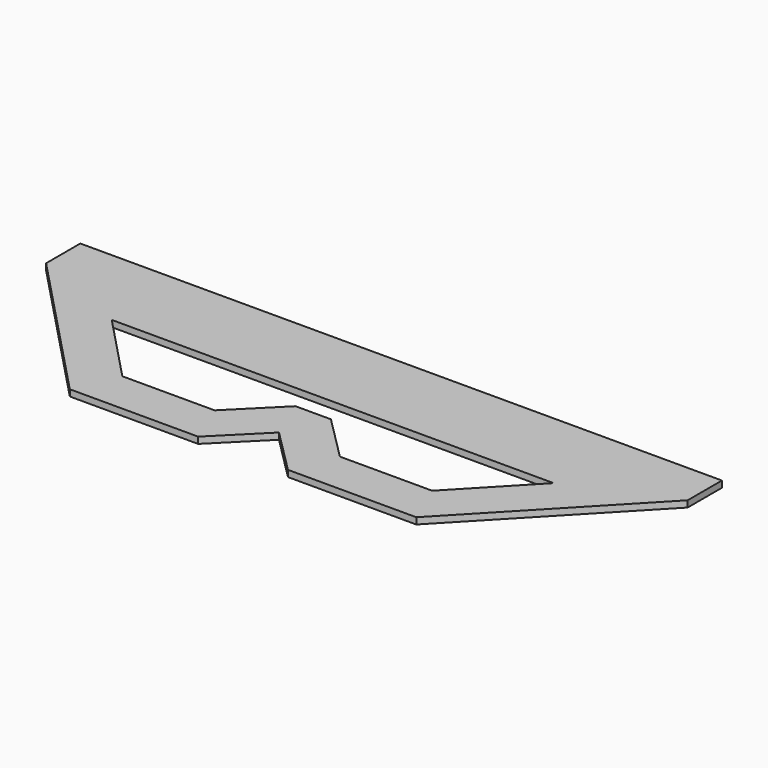
from build123d import *

# Parameters (mm, degrees)
F1_DEPTH = 1.5


with BuildPart() as f1:
    # F0 (on Top) → F1 (new body)
    with BuildSketch(Plane.XY):
        Polygon((75, 0), (-75, 0), (-75, -10), (-40.5, -46.190468), (-10.5, -46.190468), (0, -35.690468), (10.5, -46.190468), (40.5, -46.190468), (75, -10), align=None)
        Polygon((-14.642136, -36.190468), (-36.217104, -36.190468), (-51.651311, -20), (51.651311, -20), (36.217104, -36.190468), (14.642136, -36.190468), (4.142136, -25.690468), (-4.142136, -25.690468), align=None, mode=Mode.SUBTRACT)
    extrude(amount=F1_DEPTH)


solid = f1.part
